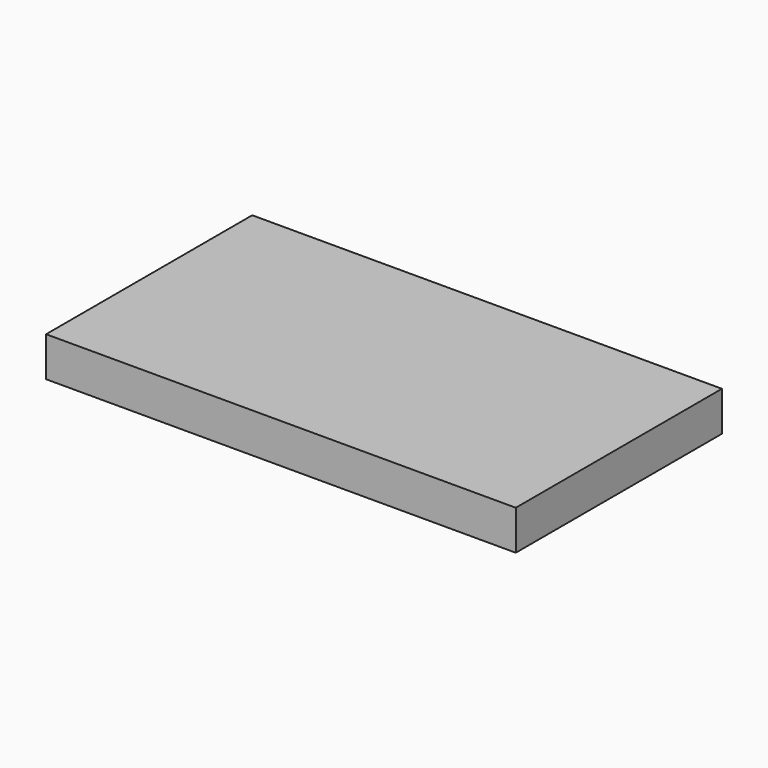
from build123d import *

# Parameters (mm, degrees)
SKETCH_W      = 237
SKETCH_H      = 130
EXTRUDE_DEPTH = 20


with BuildPart() as part:
    # Sketch → Extrude (new body)
    with BuildSketch(Plane.XY):
        Rectangle(SKETCH_W, SKETCH_H)
    extrude(amount=EXTRUDE_DEPTH)


solid = part.part
